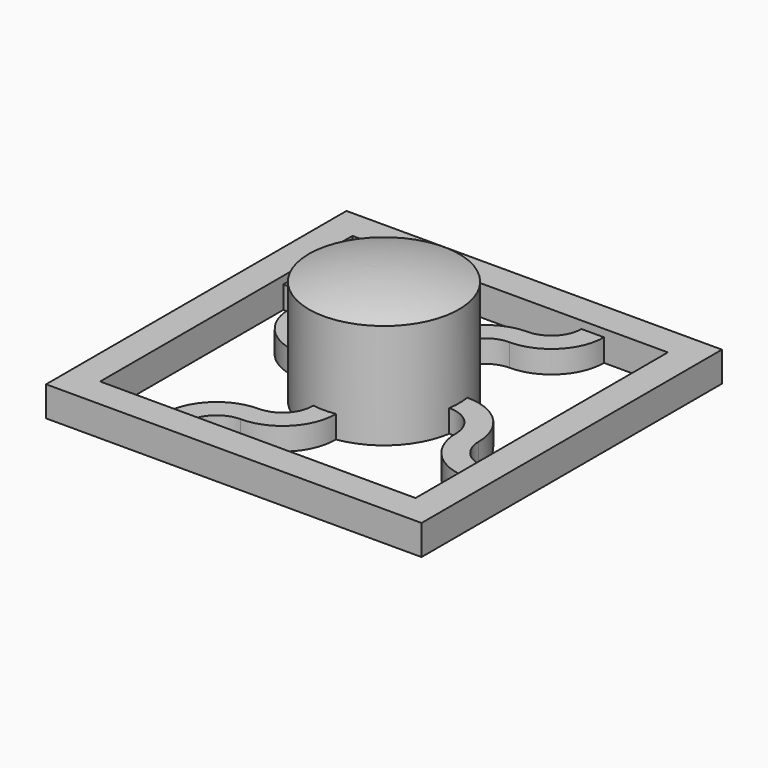
from build123d import *

# Parameters (mm, degrees)
F3_DEPTH = 1.5
F0_W     = 25
F0_H     = 25
F4_DEPTH = 2


with BuildPart() as f2:
    # F1 (on Front) → F2 (revolve)
    with BuildSketch(Plane.XZ):
        with BuildLine():
            Line((-5, 0), (0, 0))
            Line((0, 0), (0, 7.720045))
            ThreePointArc((0, 7.720045), (-2.52579, 7.53911), (-5, 7))
            Line((-5, 7), (-5, 0))
        make_face()
    revolve(axis=Axis((0, 0, 3.860023), (0, 0, -1)))

    # F0 (on Top) → F3 (join)
    with BuildSketch(Plane.XY):
        with BuildLine():
            ThreePointArc((-4.781895, -0.743198), (-4.839294, 0.009648), (-4.778893, 0.76226))
            ThreePointArc((-4.778893, 0.76226), (-6.333751, 1.259662), (-7, 2.75))
            ThreePointArc((-7, 2.75), (-8.025126, 5.224874), (-10.5, 6.25))
            Line((-10.5, 6.25), (-10.5, 4.75))
            ThreePointArc((-10.5, 4.75), (-9.085786, 4.164214), (-8.5, 2.75))
            ThreePointArc((-8.5, 2.75), (-7.396522, 0.19918), (-4.781895, -0.743198))
        make_face()
        with BuildLine():
            ThreePointArc((4.781895, 0.743198), (4.82493, 0.372706), (4.839304, 0))
            ThreePointArc((4.839304, 0), (4.824177, -0.382325), (4.778893, -0.76226))
            ThreePointArc((4.778893, -0.76226), (6.333751, -1.259662), (7, -2.75))
            ThreePointArc((7, -2.75), (8.025126, -5.224874), (10.5, -6.25))
            Line((10.5, -6.25), (10.5, -4.75))
            ThreePointArc((10.5, -4.75), (9.085786, -4.164214), (8.5, -2.75))
            ThreePointArc((8.5, -2.75), (7.396522, -0.19918), (4.781895, 0.743198))
        make_face()
        with BuildLine():
            ThreePointArc((-0.743198, 4.781895), (0.009648, 4.839294), (0.76226, 4.778893))
            ThreePointArc((0.76226, 4.778893), (1.259662, 6.333751), (2.75, 7))
            ThreePointArc((2.75, 7), (5.224874, 8.025126), (6.25, 10.5))
            Line((6.25, 10.5), (4.75, 10.5))
            ThreePointArc((4.75, 10.5), (4.164214, 9.085786), (2.75, 8.5))
            ThreePointArc((2.75, 8.5), (0.19918, 7.396522), (-0.743198, 4.781895))
        make_face()
        with BuildLine():
            ThreePointArc((-2.75, -8.5), (-0.19918, -7.396522), (0.743198, -4.781895))
            ThreePointArc((0.743198, -4.781895), (-0.009648, -4.839294), (-0.76226, -4.778893))
            ThreePointArc((-0.76226, -4.778893), (-1.259662, -6.333751), (-2.75, -7))
            ThreePointArc((-2.75, -7), (-5.224874, -8.025126), (-6.25, -10.5))
            Line((-6.25, -10.5), (-4.75, -10.5))
            ThreePointArc((-4.75, -10.5), (-4.164214, -9.085786), (-2.75, -8.5))
        make_face()
    extrude(amount=F3_DEPTH)

    # F0 (on Top) → F4 (join)
    with BuildSketch(Plane.XY):
        Rectangle(F0_W, F0_H)
        Polygon((10.5, 10.5), (10.5, -4.75), (10.5, -6.25), (10.5, -10.5), (-4.75, -10.5), (-6.25, -10.5), (-10.5, -10.5), (-10.5, 4.75), (-10.5, 6.25), (-10.5, 10.5), (4.75, 10.5), (6.25, 10.5), align=None, mode=Mode.SUBTRACT)
    extrude(amount=F4_DEPTH)


solid = f2.part
